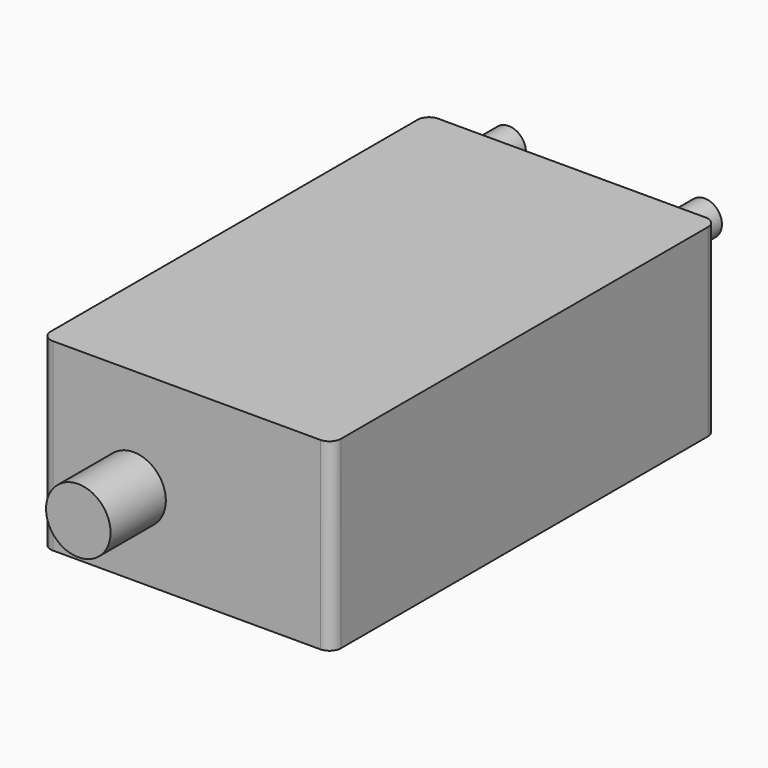
from build123d import *

# Parameters (mm, degrees)
F1_DEPTH = 40
F2_R     = 2.5
F3_DEPTH = 25
F4_R     = 14
F5_DEPTH = 30
F6_R     = 7.5
F7_DEPTH = 20


with BuildPart() as f1:
    # F0 (on Top) → F1 (new body, symmetric)
    with BuildSketch(Plane.XY):
        with BuildLine():
            Line((-58, -104.5), (58, -104.5))
            ThreePointArc((58, -104.5), (61.5355339059, -103.0355339059), (63, -99.5))
            Line((63, -99.5), (63, 99.5))
            ThreePointArc((63, 99.5), (61.5355339059, 103.0355339059), (58, 104.5))
            Line((58, 104.5), (-58, 104.5))
            ThreePointArc((-58, 104.5), (-61.5355339059, 103.0355339059), (-63, 99.5))
            Line((-63, 99.5), (-63, -99.5))
            ThreePointArc((-63, -99.5), (-61.5355339059, -103.0355339059), (-58, -104.5))
        make_face()
    extrude(amount=F1_DEPTH, both=True)

    # F2 (on face) → F3 (cut)
    with BuildSketch(Plane(origin=(0, 0, -40), x_dir=(1, 0, 0), z_dir=(0, 0, -1))):
        with Locations((-53.5, -82)):
            Circle(F2_R)
        with Locations((53.5, -82)):
            Circle(F2_R)
        with Locations((-53.5, 68)):
            Circle(F2_R)
        with Locations((53.5, 68)):
            Circle(F2_R)
    extrude(amount=-F3_DEPTH, mode=Mode.SUBTRACT)

    # F4 (on face) → F5 (join)
    with BuildSketch(Plane.XZ.offset(104.5)):
        with Locations((-23, -5)):
            Circle(F4_R)
    extrude(amount=F5_DEPTH)

    # F6 (on face) → F7 (join)
    with BuildSketch(Plane(origin=(0, 104.5, 0), x_dir=(-1, 0, 0), z_dir=(0, 1, 0))):
        with Locations((-41.5932163596, 26.335991919)):
            Circle(F6_R)
        with Locations((43.447509408, 26.335991919)):
            Circle(F6_R)
    extrude(amount=F7_DEPTH)


solid = f1.part
